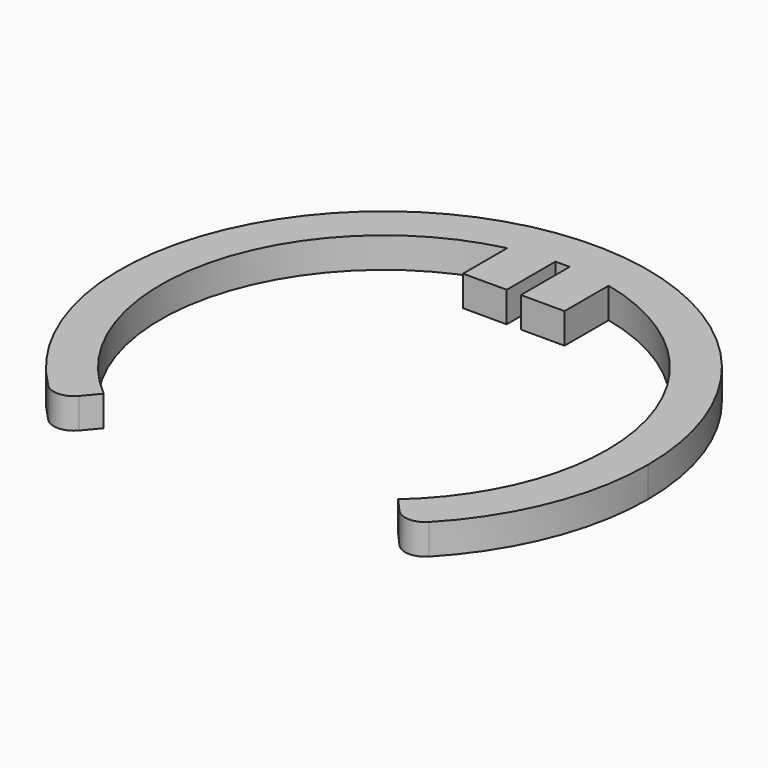
from build123d import *

# Parameters (mm, degrees)
F1_DEPTH = 1.5
F2_R     = 1


with BuildPart() as f1:
    # F0 (on Top) → F1 (new body)
    with BuildSketch(Plane.XY):
        with BuildLine():
            ThreePointArc((2.5, 10.7121426428), (8.6168439698, 6.8373971656), (11, 0))
            ThreePointArc((11, 0), (10.0302093156, -4.5160714217), (7.2918361662, -8.2358439352))
            Line((7.2918361662, -8.2358439352), (8.61762456, -9.7332701053))
            ThreePointArc((8.61762456, -9.7332701053), (11.8538837366, -5.3371753166), (13, 0))
            ThreePointArc((13, 0), (-5.5098347525, 11.7746219048), (-8.3294955385, -9.9809570721))
            Line((-8.3294955385, -9.9809570721), (-7.0480346864, -8.4454252148))
            ThreePointArc((-7.0480346864, -8.4454252148), (-10.7025390982, 2.5407984674), (-2.5, 10.7121426428))
            ThreePointArc((-2.5, 10.7121426428), (-1.4319729731, 10.9063950692), (-0.35, 10.9944304082))
            ThreePointArc((-0.35, 10.9944304082), (0, 11), (0.35, 10.9944304082))
            ThreePointArc((0.35, 10.9944304082), (1.4319729731, 10.9063950692), (2.5, 10.7121426428))
        make_face()
        with BuildLine():
            Line((-0.35, 7.9944304082), (-0.35, 10.9944304082))
            ThreePointArc((-0.35, 10.9944304082), (-1.4319729731, 10.9063950692), (-2.5, 10.7121426428))
            Line((-2.5, 10.7121426428), (-2.5, 7.9944304082))
            Line((-2.5, 7.9944304082), (-0.35, 7.9944304082))
        make_face()
        with BuildLine():
            Line((2.5, 7.9944304082), (2.5, 10.7121426428))
            ThreePointArc((2.5, 10.7121426428), (1.4319729731, 10.9063950692), (0.35, 10.9944304082))
            Line((0.35, 10.9944304082), (0.35, 7.9944304082))
            Line((0.35, 7.9944304082), (2.5, 7.9944304082))
        make_face()
    extrude(amount=F1_DEPTH)

    # F2
    f2_edges = [f1.edges().sort_by_distance(p)[0] for p in [
        (-8.329496, -9.980957, 0.75),
        (8.617625, -9.73327, 0.75),
    ]]
    fillet(f2_edges, radius=F2_R)


solid = f1.part
